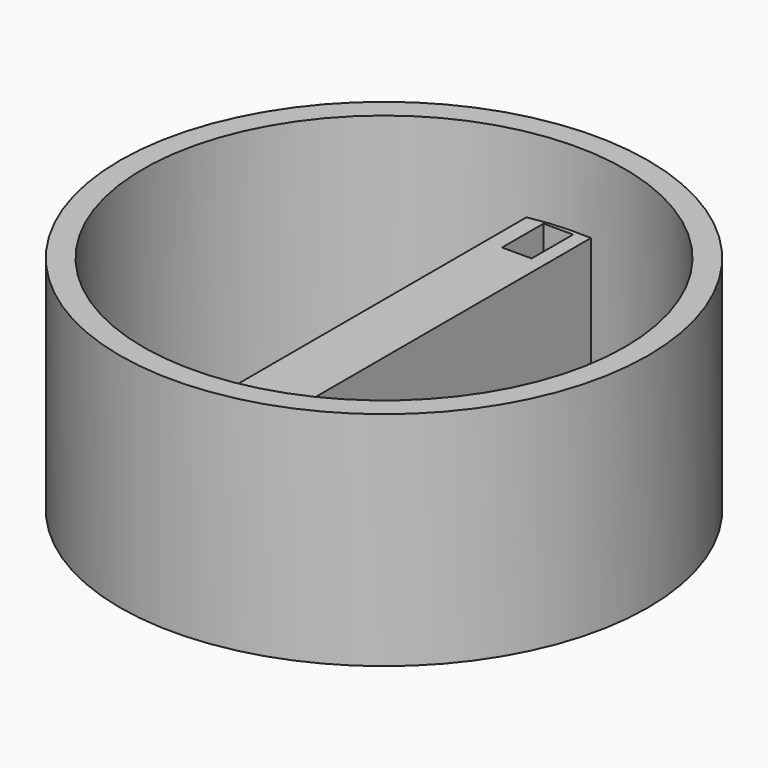
from build123d import *

# Parameters (mm, degrees)
F0_R     = 35.715838
F1_DEPTH = 30
F2_R     = 32.580129
F3_DEPTH = 149
F5_DEPTH = 19.8
F6_W     = 4.003989
F6_H     = 7.003708
F7_DEPTH = 120.5


with BuildPart() as f1:
    # F0 (on Top) → F1 (new body)
    with BuildSketch(Plane.XY):
        Circle(F0_R)
    extrude(amount=F1_DEPTH)

    # F2 (on face) → F3 (cut)
    with BuildSketch(Plane(origin=(0, 0, 0), x_dir=(1, 0, 0), z_dir=(0, 0, -1))):
        Circle(F2_R)
    extrude(amount=-F3_DEPTH, mode=Mode.SUBTRACT)

    # F4 (on Top) → F5 (join)
    with BuildSketch(Plane.XY):
        Polygon((1.966494, 35.009865), (-6.307223, 34.134421), (-6.307223, -30.437076), (1.966494, -30.437076), align=None)
    extrude(amount=F5_DEPTH)

    # F6 (on face) → F7 (cut)
    with BuildSketch(Plane.XY.offset(19.8)):
        with Locations((-2.001994, 28.461934)):
            Rectangle(F6_W, F6_H)
    extrude(amount=-F7_DEPTH, mode=Mode.SUBTRACT)


solid = f1.part
